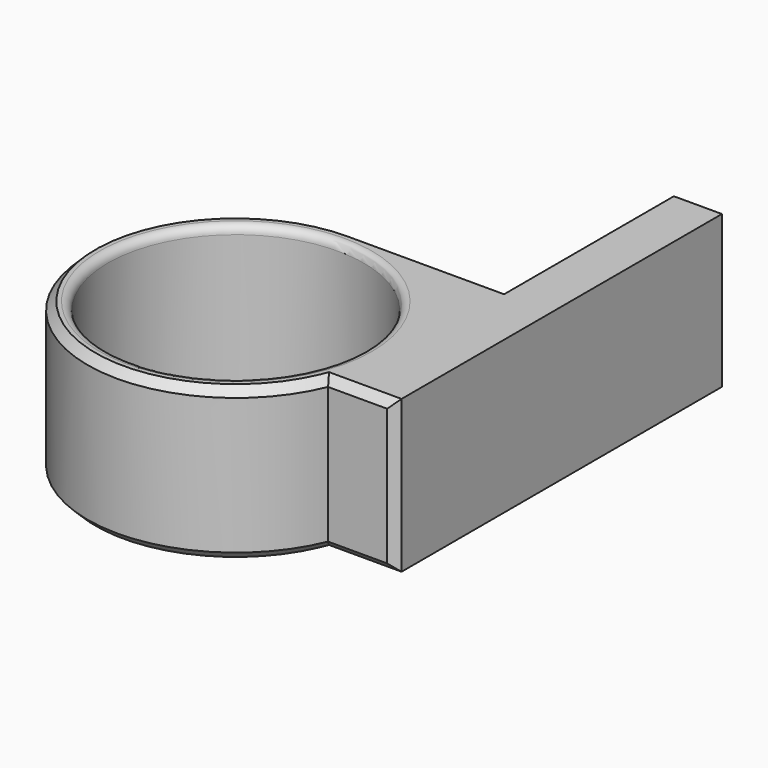
from build123d import *

# Parameters (mm, degrees)
F1_R     = 16
F1_W     = 7
F1_H     = 7
F2_DEPTH = 19
F3_SIZE  = 1
F4_R     = 1
F5_SIZE  = 1
F6_SIZE  = 1


with BuildPart() as f2:
    # F1 (on Top) → F2 (new body)
    with BuildSketch(Plane.XY):
        with BuildLine():
            ThreePointArc((17.1245437895, -7), (18.1528793874, -3.5669272416), (18.5, 0))
            ThreePointArc((18.5, 0), (13.081475452, 13.081475452), (0, 18.5))
            ThreePointArc((0, 18.5), (-15.3582225534, -10.3138256724), (17.1245437895, -7))
        make_face()
        Circle(F1_R, mode=Mode.SUBTRACT)
        with BuildLine():
            ThreePointArc((0, 18.5), (13.081475452, 13.081475452), (18.5, 0))
            Line((18.5, 0), (18.5, 18.5))
            Line((18.5, 18.5), (0, 18.5))
        make_face()
        Polygon((18.5, 18.5), (18.5, 0), (25.5, 0), (25.5, 45), (18.5, 45), align=None)
        with BuildLine():
            Line((18.5, -7), (18.5, 0))
            ThreePointArc((18.5, 0), (18.1528793874, -3.5669272416), (17.1245437895, -7))
            Line((17.1245437895, -7), (18.5, -7))
        make_face()
        with Locations((22, -3.5)):
            Rectangle(F1_W, F1_H)
    extrude(amount=F2_DEPTH)

    # F3
    f3_edges = [f2.edges().sort_by_distance(p)[0] for p in [
        (25.5, -7, 9.5),
    ]]
    chamfer(f3_edges, length=F3_SIZE)

    # F4
    f4_edges = [f2.edges().sort_by_distance(p)[0] for p in [
        (-16, 0, 19),
        (-16, 0, 0),
    ]]
    fillet(f4_edges, radius=F4_R)

    # F5
    f5_edges = [f2.edges().sort_by_distance(p)[0] for p in [
        (9.25, 18.5, 19),
        (-15.358223, -10.313826, 19),
        (-15.358223, -10.313826, 0),
        (9.25, 18.5, 0),
    ]]
    chamfer(f5_edges, length=F5_SIZE)

    # F6
    f6_edges = [f2.edges().sort_by_distance(p)[0] for p in [
        (18.5, 45, 9.5),
        (22, 45, 0),
        (22, 45, 19),
        (25.5, 45, 9.5),
        (18.5, 31.75, 19),
        (18.5, 31.75, 0),
        (20.812272, -7, 19),
        (20.812272, -7, 0),
    ]]
    chamfer(f6_edges, length=F6_SIZE)


solid = f2.part
